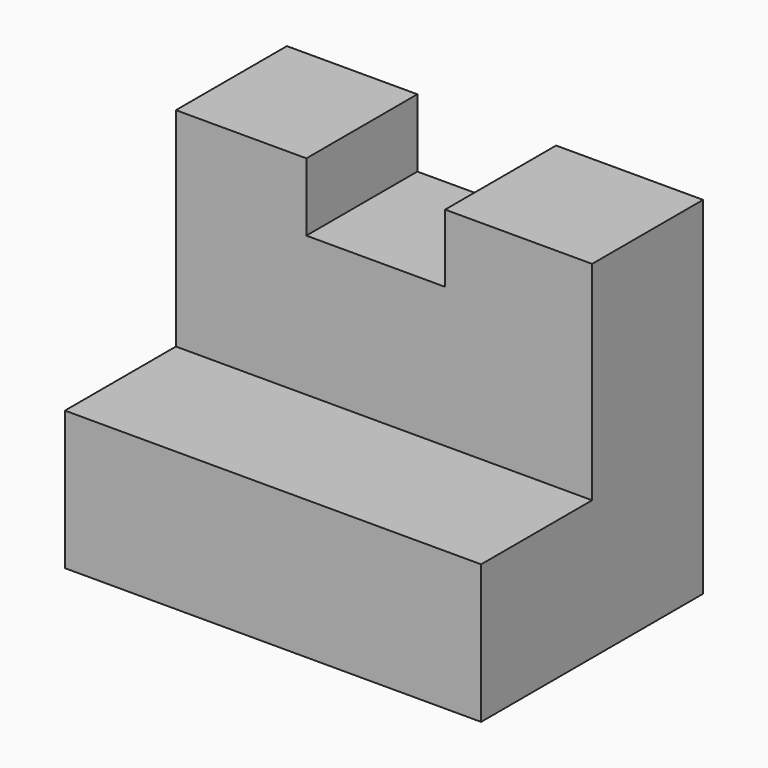
from build123d import *

# Parameters (mm, degrees)
F1_DEPTH = 38.1
F2_W     = 12.7
F2_H     = 6.35
F3_DEPTH = 25.401001


with BuildPart() as f1:
    # F0 (on Right) → F1 (new body)
    with BuildSketch(Plane.YZ):
        Polygon((0, 12.7), (0, 0), (25.400001, 0), (25.400001, 31.75), (12.700001, 31.75), (12.700001, 12.7), align=None)
    extrude(amount=F1_DEPTH)

    # F2 (on Front) → F3 (cut, through all)
    with BuildSketch(Plane.XZ):
        with Locations((18.293744, 28.697193)):
            Rectangle(F2_W, F2_H)
    extrude(amount=-F3_DEPTH, mode=Mode.SUBTRACT)


solid = f1.part
